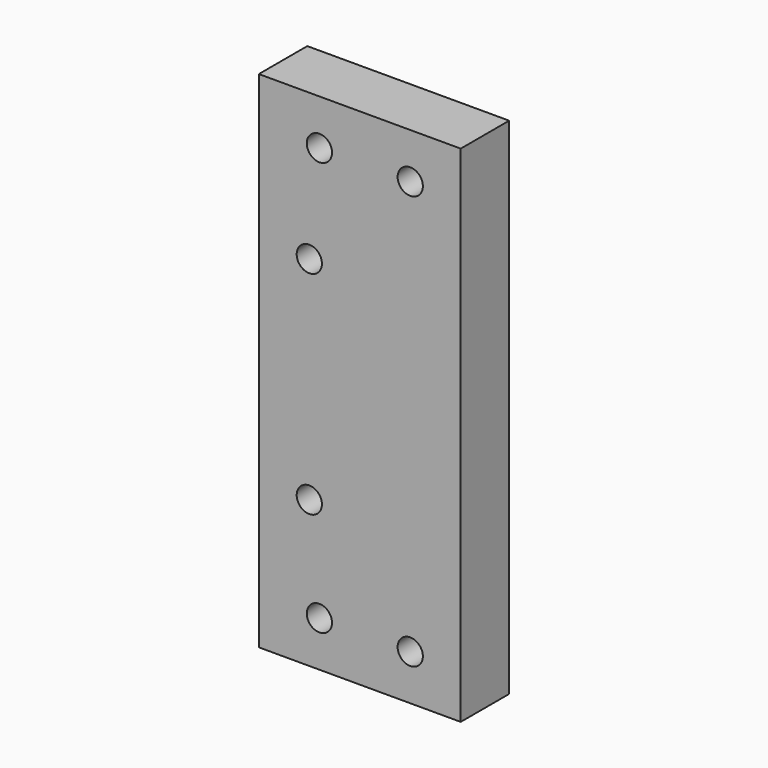
from build123d import *

# Parameters (mm, degrees)
F0_W     = 20
F0_H     = 50
F1_DEPTH = 6
F3_D     = 2.5
F5_D     = 2.5


with BuildPart() as f1:
    # F0 (on Front) → F1 (new body)
    with BuildSketch(Plane.XZ):
        with Locations((-10, 25)):
            Rectangle(F0_W, F0_H)
        with Locations((-10, 25)):
            Rectangle(F0_W, F0_H)
    extrude(amount=F1_DEPTH)

    # F3 (through all)
    with Locations(Plane.XZ.offset(6)):
        with Locations((-5, 45.5), (-5, 4.5), (-15, 14.5), (-15, 35.5)):
            Hole(F3_D / 2)

    # F5 (through all)
    with Locations(Plane(origin=(0, 0, 0), x_dir=(1, 0, 0), z_dir=(0, 1, 0))):
        with Locations((-14, -45.5), (-14, -4.5)):
            Hole(F5_D / 2)


solid = f1.part
